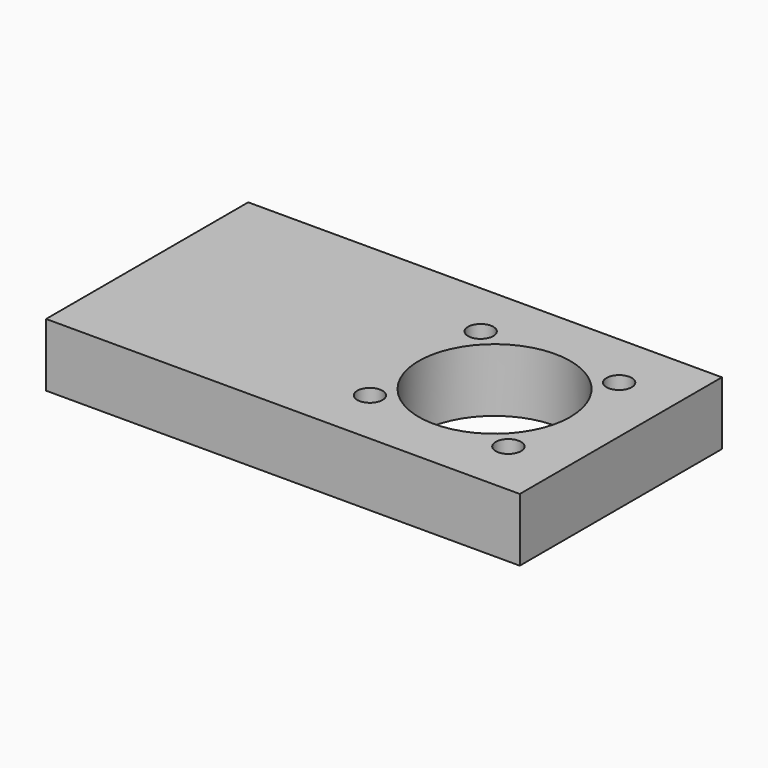
from build123d import *

# Parameters (mm, degrees)
SKETCH_W   = 75
SKETCH_H   = 40
SKETCH_R   = 12
SKETCH_R_2 = 2
PAD_DEPTH  = 10


with BuildPart() as part:
    # Sketch → Pad (new body)
    with BuildSketch(Plane.XY):
        with Locations((37.5, 20)):
            Rectangle(SKETCH_W, SKETCH_H)
        with Locations((55, 20)):
            Circle(SKETCH_R, mode=Mode.SUBTRACT)
        with Locations((65.960155, 30.960155)):
            Circle(SKETCH_R_2, mode=Mode.SUBTRACT)
        with Locations((44.039845, 30.960155)):
            Circle(SKETCH_R_2, mode=Mode.SUBTRACT)
        with Locations((44.039845, 9.039845)):
            Circle(SKETCH_R_2, mode=Mode.SUBTRACT)
        with Locations((65.960155, 9.039845)):
            Circle(SKETCH_R_2, mode=Mode.SUBTRACT)
    extrude(amount=PAD_DEPTH)


solid = part.part
